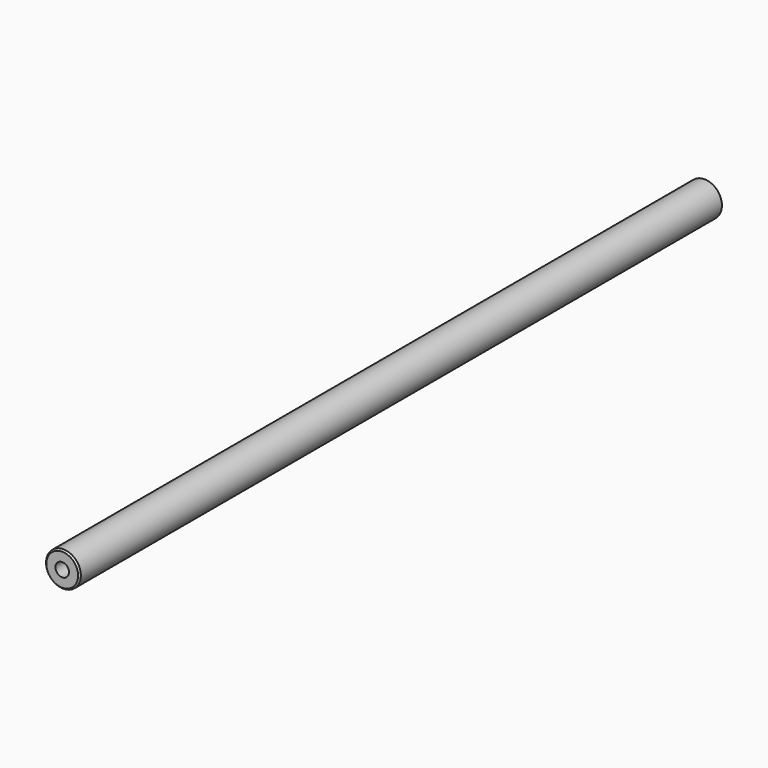
from build123d import *

# Parameters (mm, degrees)
F0_R     = 22.5
F1_DEPTH = 1040
F2_SIZE  = 2
F4_D     = 17.5
F4_DEPTH = 35
F4_TIP   = 5.2575304165


with BuildPart() as f1:
    # F0 (on Front) → F1 (new body)
    with BuildSketch(Plane.XZ):
        Circle(F0_R)
    extrude(amount=F1_DEPTH)

    # F2
    f2_edges = [f1.edges().sort_by_distance(p)[0] for p in [
        (-22.5, 0, 0),
        (-22.5, -1040, 0),
    ]]
    chamfer(f2_edges, length=F2_SIZE)

    # F4
    with Locations(Plane.XZ.offset(1040)):
        with Locations((0, 0)):
            Hole(F4_D / 2, depth=F4_DEPTH)
            with Locations((0, 0, -(F4_DEPTH + F4_TIP / 2))):  # 118° drill point
                Cone(0, F4_D / 2, F4_TIP, mode=Mode.SUBTRACT)


solid = f1.part
